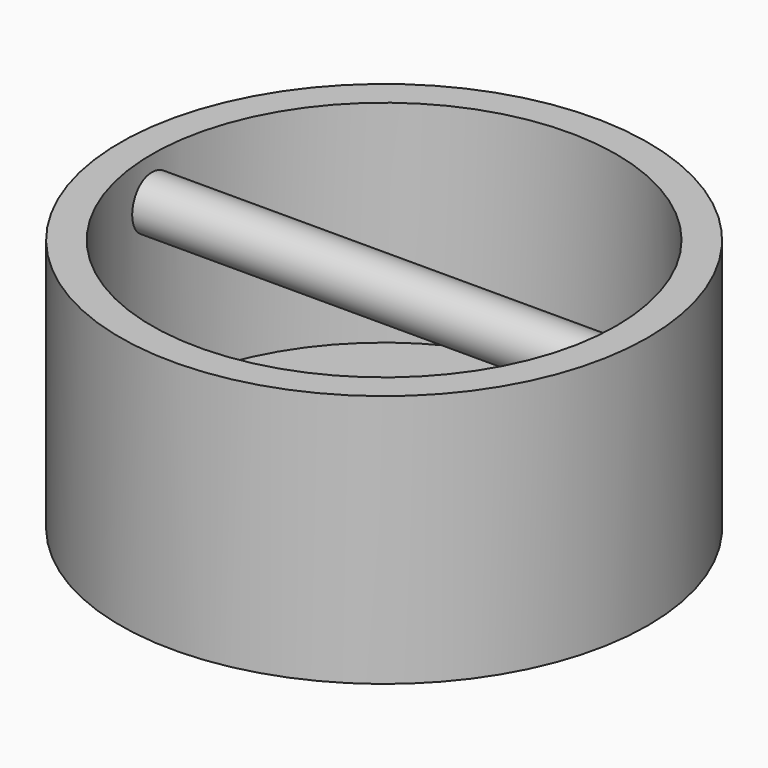
from build123d import *

# Parameters (mm, degrees)
F0_R          = 31.75
F0_R_2        = 27.94
F1_DEPTH      = 25.4
F2_R          = 3.175
F3_DEPTH      = 30.48
F3_DEPTH_BACK = 30.48
F4_R          = 31.75
F5_DEPTH      = 5.08


with BuildPart() as f1:
    # F0 (on Top) → F1 (new body)
    with BuildSketch(Plane.XY):
        Circle(F0_R)
        Circle(F0_R_2, mode=Mode.SUBTRACT)
    extrude(amount=F1_DEPTH)

    # F2 (on Right) → F3 (join, two sides)
    with BuildSketch(Plane.YZ) as f3_sk:
        with Locations((0, 20.32)):
            Circle(F2_R)
    extrude(amount=-F3_DEPTH)
    extrude(f3_sk.sketch, amount=F3_DEPTH_BACK)

    # F4 (on Top) → F5 (join)
    with BuildSketch(Plane.XY):
        Circle(F4_R)
    extrude(amount=-F5_DEPTH)


solid = f1.part
